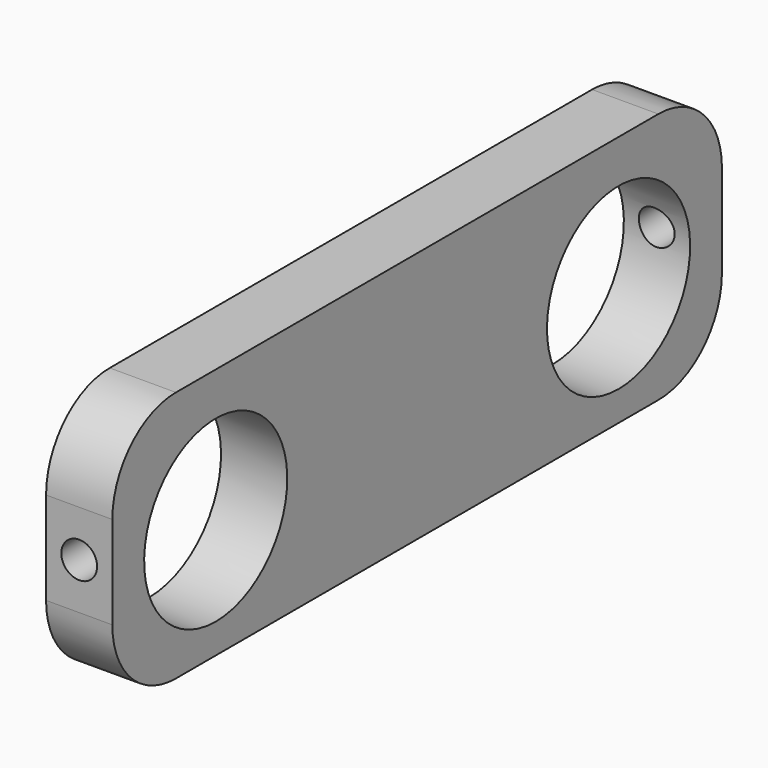
from build123d import *

# Parameters (mm, degrees)
CYLINDER022_R     = 1.35
CYLINDER022_DEPTH = 10
CYLINDER021_R     = 1.35
CYLINDER021_DEPTH = 10
CYLINDER020_R     = 6.75
CYLINDER020_DEPTH = 50
CYLINDER019_R     = 6.75
CYLINDER019_DEPTH = 50
BOX005_W          = 5
BOX005_H          = 57.5
BOX005_DEPTH      = 19
FILLET007_R       = 6


with BuildPart() as cylinder017:
    # Cylinder022 → Cylinder022 (new body)
    with BuildSketch(Plane(origin=(2.5, -22, 23), x_dir=(1, 0, 0), z_dir=(0, -1, 0))):
        Circle(CYLINDER022_R)
    extrude(amount=CYLINDER022_DEPTH)


with BuildPart() as cylinder016:
    # Cylinder021 → Cylinder021 (new body)
    with BuildSketch(Plane(origin=(2.5, 32, 23), x_dir=(1, 0, 0), z_dir=(0, -1, 0))):
        Circle(CYLINDER021_R)
    extrude(amount=CYLINDER021_DEPTH)


with BuildPart() as tubo004:
    # Cylinder020 → Cylinder020 (new body)
    with BuildSketch(Plane(origin=(-24, 19, 22.5), x_dir=(0, 0, -1), z_dir=(1, 0, 0))):
        Circle(CYLINDER020_R)
    extrude(amount=CYLINDER020_DEPTH)


with BuildPart() as tubo003:
    # Cylinder019 → Cylinder019 (new body)
    with BuildSketch(Plane(origin=(-24, -19, 22.5), x_dir=(0, 0, -1), z_dir=(1, 0, 0))):
        Circle(CYLINDER019_R)
    extrude(amount=CYLINDER019_DEPTH)


with BuildPart() as obj1:
    # Box005 → Box005 (new body)
    with BuildSketch(Plane(origin=(0, -28.75, 13.5), x_dir=(1, 0, 0), z_dir=(0, 0, 1))):
        with Locations((2.5, 28.75)):
            Rectangle(BOX005_W, BOX005_H)
    extrude(amount=BOX005_DEPTH)

    # Fillet007
    fillet007_edges = [obj1.edges().sort_by_distance(p)[0] for p in [
        (2.5, -28.75, 13.5),
        (2.5, -28.75, 32.5),
        (2.5, 28.75, 13.5),
        (2.5, 28.75, 32.5),
    ]]
    fillet(fillet007_edges, radius=FILLET007_R)

    # Cut016: cut tubo003
    add(tubo003.part, mode=Mode.SUBTRACT)

    # Cut017: cut tubo004
    add(tubo004.part, mode=Mode.SUBTRACT)

    # Cut018: cut Cylinder016
    add(cylinder016.part, mode=Mode.SUBTRACT)

    # Cut019: cut Cylinder017
    add(cylinder017.part, mode=Mode.SUBTRACT)


with BuildPart() as obj1_1:
    # Cut019 placement: moved
    add(obj1.part.moved(Location((36, 0, 0))))


solid = obj1_1.part
